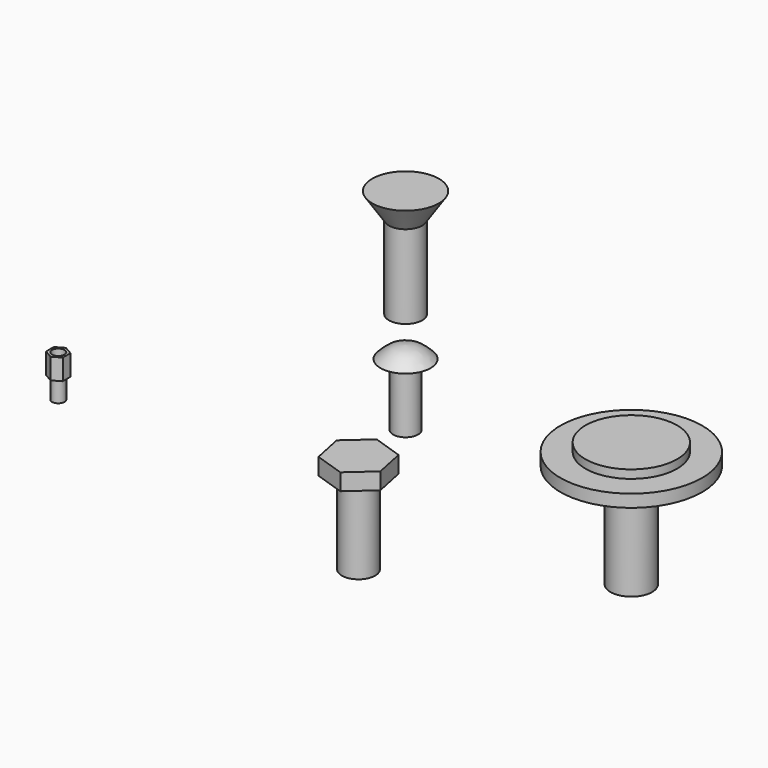
from build123d import *

# Parameters (mm, degrees)
F2_R           = 3
F3_DEPTH       = 15
F6_R           = 4
F7_DEPTH       = 20
F9_DEPTH       = 4
F11_DEPTH      = 5
F12_R          = 1.5
F13_DEPTH      = 6
F14_DEPTH      = 5
F14_DEPTH_BACK = 1


with BuildPart() as f1:
    # F0 (on Front) → F1 (revolve)
    with BuildSketch(Plane.XZ):
        with BuildLine():
            add(Edge.make_bspline(
                [(6, 0), (5.1182094803, 0.9014976906), (3.3967041799, 2.6614769805), (1.1136343677, 2.8890127462), (0, 3)],
                knots=[0, 0, 0, 0, 0.5122206243, 1, 1, 1, 1], degree=3))
            Line((0, 3), (0, 0))
            Line((0, 0), (6, 0))
        make_face()
    revolve(axis=Axis((0, 0, -0.1887138933), (0, 0, -1)))

    # F2 (on face) → F3 (join)
    with BuildSketch(Plane(origin=(0, 0, 0), x_dir=(1, 0, 0), z_dir=(0, 0, -1))):
        Circle(F2_R)
    extrude(amount=F3_DEPTH)


with BuildPart() as f5:
    # F4 (on Front) → F5 (revolve)
    with BuildSketch(Plane.XZ):
        Polygon((8, 35.4456133136), (0, 35.4456133136), (0, 9.4456133136), (4, 9.4456133136), (4, 29.4456133136), align=None)
    revolve(axis=Axis((0, 0, 22.4456133136), (0, 0, -1)))


with BuildPart() as f7:
    # F6 (on Top) → F7 (new body)
    with BuildSketch(Plane.XY):
        with Locations((22.4784184247, -42.2081761062)):
            Circle(F6_R)
    extrude(amount=-F7_DEPTH)

    # F8 (on face) → F9 (join)
    with BuildSketch(Plane.XY):
        Polygon((20.96271244, -34.8572599251), (15.3544852785, -39.8453579031), (16.8701912632, -47.1962740842), (23.9941244094, -49.5590922873), (29.602351571, -44.5709943093), (28.0866455863, -37.2200781282), align=None)
    extrude(amount=F9_DEPTH)


with BuildPart() as f11:
    # F10 (on Top) → F11 (new body)
    with BuildSketch(Plane.XY):
        Polygon((-44.4631840587, -47.191353759), (-44.4631840587, -44.8819526823), (-46.4631840587, -43.7272521439), (-48.4631840587, -44.8819526823), (-48.4631840587, -47.191353759), (-46.4631840587, -48.3460542974), align=None)
    extrude(amount=F11_DEPTH)

    # F12 (on face) → F13 (cut)
    with BuildSketch(Plane(origin=(0, 0, 0), x_dir=(1, 0, 0), z_dir=(0, 0, -1))):
        with Locations((-46.4631840587, 46.0366532207)):
            Circle(F12_R)
    extrude(amount=-F13_DEPTH, mode=Mode.SUBTRACT)

    # F12 (on face) → F14 (join, two sides)
    with BuildSketch(Plane(origin=(0, 0, 0), x_dir=(1, 0, 0), z_dir=(0, 0, -1))) as f14_sk:
        with Locations((-46.4631840587, 46.0366532207)):
            Circle(F12_R)
    extrude(amount=F14_DEPTH)
    extrude(f14_sk.sketch, amount=-F14_DEPTH_BACK)


with BuildPart() as f16:
    # F15 (on Front) → F16 (revolve)
    with BuildSketch(Plane.XZ):
        Polygon((65.1374427022, 0), (54.1374427022, 0), (54.1374427022, -30), (59.1374427022, -30), (59.1374427022, -10), (71.1374427022, -5), (71.1374427022, -2), (65.1374427022, -2), align=None)
    revolve(axis=Axis((54.1374427022, 0, -15), (0, 0, 1)))


solid = Compound([f1.part, f5.part, f7.part, f11.part, f16.part])
